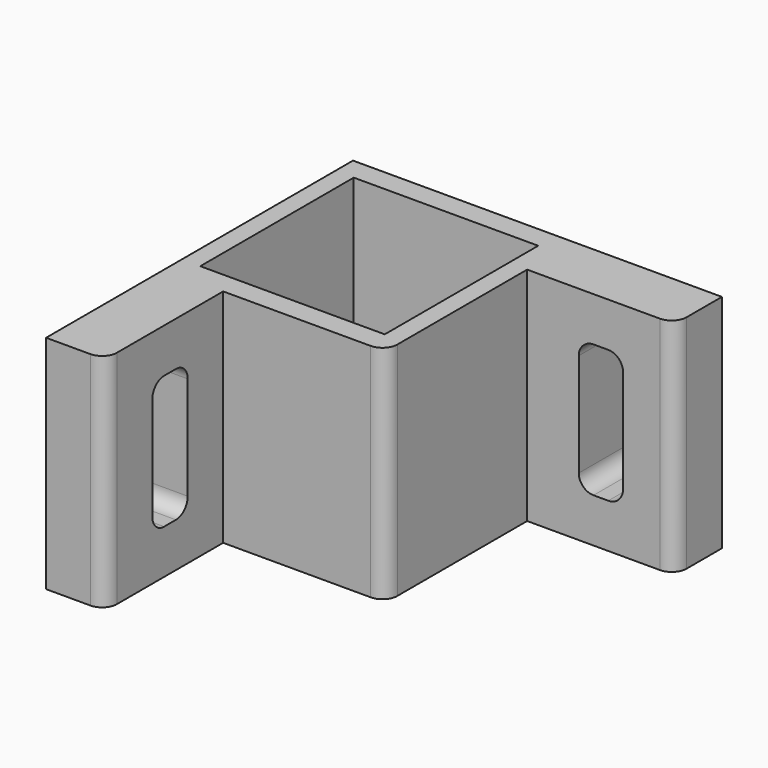
from build123d import *

# Parameters (mm, degrees)
BOX005_W          = 3
BOX005_H          = 9
BOX005_DEPTH      = 4
FILLET001_R       = 1
BOX003_W          = 10
BOX003_H          = 15
BOX003_DEPTH      = 4
FILLET003_R       = 1
BOX001_W          = 12.5
BOX001_H          = 15
BOX001_DEPTH      = 13
BOX_W             = 15
BOX_H             = 15
BOX_DEPTH         = 16
FILLET004_R       = 1
BOX004_W          = 4
BOX004_H          = 9
BOX004_DEPTH      = 3
FILLET_R          = 1
BOX002_W          = 4
BOX002_H          = 15
BOX002_DEPTH      = 10
FILLET002_R       = 1
FUSION_ROLL_ANGLE = 90


with BuildPart() as fillet001:
    # Box005 → Box005 (new body)
    with BuildSketch(Plane(origin=(18.5, 3, 0), x_dir=(1, 0, 0), z_dir=(0, 0, 1))):
        with Locations((1.5, 4.5)):
            Rectangle(BOX005_W, BOX005_H)
    extrude(amount=BOX005_DEPTH)

    # Fillet001
    fillet001_edges = [fillet001.edges().sort_by_distance(p)[0] for p in [
        (18.5, 3, 2),
        (18.5, 12, 2),
        (21.5, 3, 2),
        (21.5, 12, 2),
    ]]
    fillet(fillet001_edges, radius=FILLET001_R)


with BuildPart() as fillet003:
    # Box003 → Box003 (new body)
    with BuildSketch(Plane(origin=(15, 0, 0), x_dir=(1, 0, 0), z_dir=(0, 0, 1))):
        with Locations((5, 7.5)):
            Rectangle(BOX003_W, BOX003_H)
    extrude(amount=BOX003_DEPTH)

    # Cut002: cut Fillet001
    add(fillet001.part, mode=Mode.SUBTRACT)

    # Fillet003
    fillet003_edges = [fillet003.edges().sort_by_distance(p)[0] for p in [
        (25, 7.5, 4),
    ]]
    fillet(fillet003_edges, radius=FILLET003_R)


with BuildPart() as cube001:
    # Box001 → Box001 (new body)
    with BuildSketch(Plane(origin=(1.25, 0, 1.5), x_dir=(1, 0, 0), z_dir=(0, 0, 1))):
        with Locations((6.25, 7.5)):
            Rectangle(BOX001_W, BOX001_H)
    extrude(amount=BOX001_DEPTH)


with BuildPart() as fillet004:
    # Box → Box (new body)
    with BuildSketch(Plane.XY):
        with Locations((7.5, 7.5)):
            Rectangle(BOX_W, BOX_H)
    extrude(amount=BOX_DEPTH)

    # Cut: cut Cube001
    add(cube001.part, mode=Mode.SUBTRACT)

    # Fillet004
    fillet004_edges = [fillet004.edges().sort_by_distance(p)[0] for p in [
        (15, 7.5, 16),
    ]]
    fillet(fillet004_edges, radius=FILLET004_R)


with BuildPart() as fillet_body:
    # Box004 → Box004 (new body)
    with BuildSketch(Plane(origin=(0, 3, 19), x_dir=(1, 0, 0), z_dir=(0, 0, 1))):
        with Locations((2, 4.5)):
            Rectangle(BOX004_W, BOX004_H)
    extrude(amount=BOX004_DEPTH)

    # Fillet
    fillet_edges = [fillet_body.edges().sort_by_distance(p)[0] for p in [
        (2, 3, 19),
        (2, 3, 22),
        (2, 12, 19),
        (2, 12, 22),
    ]]
    fillet(fillet_edges, radius=FILLET_R)


with BuildPart() as fusion:
    # Box002 → Box002 (new body)
    with BuildSketch(Plane.XY.offset(16)):
        with Locations((2, 7.5)):
            Rectangle(BOX002_W, BOX002_H)
    extrude(amount=BOX002_DEPTH)

    # Cut001: cut Fillet body
    add(fillet_body.part, mode=Mode.SUBTRACT)

    # Fillet002
    fillet002_edges = [fusion.edges().sort_by_distance(p)[0] for p in [
        (4, 7.5, 26),
    ]]
    fillet(fillet002_edges, radius=FILLET002_R)

    # Fusion: union Fillet003, Fillet004
    add(fillet003.part)
    add(fillet004.part)


with BuildPart() as fusion_1:
    # Fusion roll: moved
    add(fusion.part.rotate(Axis((0, 0, 0), (1, 0, 0)), FUSION_ROLL_ANGLE))


with BuildPart() as fusion_2:
    # Fusion placement: moved
    add(fusion_1.part)


solid = fusion_2.part
